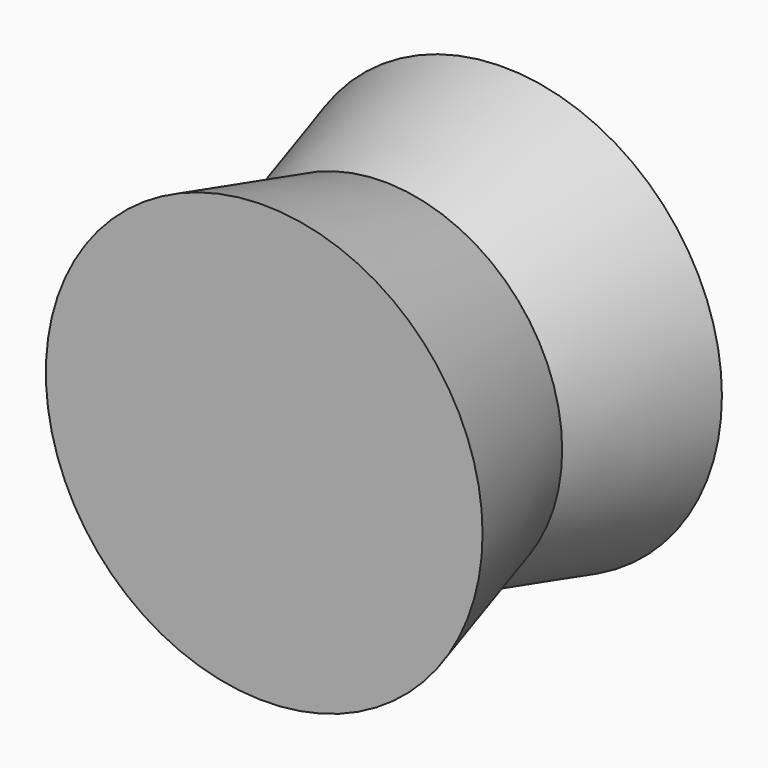
from build123d import *

# Parameters (mm, degrees)
F0_R     = 42.3675332422
F1_DEPTH = 35.55
F1_TAPER = -15


with BuildPart() as f1:
    # F0 (on Front) → F1 (new body, symmetric)
    with BuildSketch(Plane.XZ):
        with Locations((-42.1009622514, -4.7451923601)):
            Circle(F0_R)
    extrude(amount=F1_DEPTH, both=True, taper=F1_TAPER)


solid = f1.part
